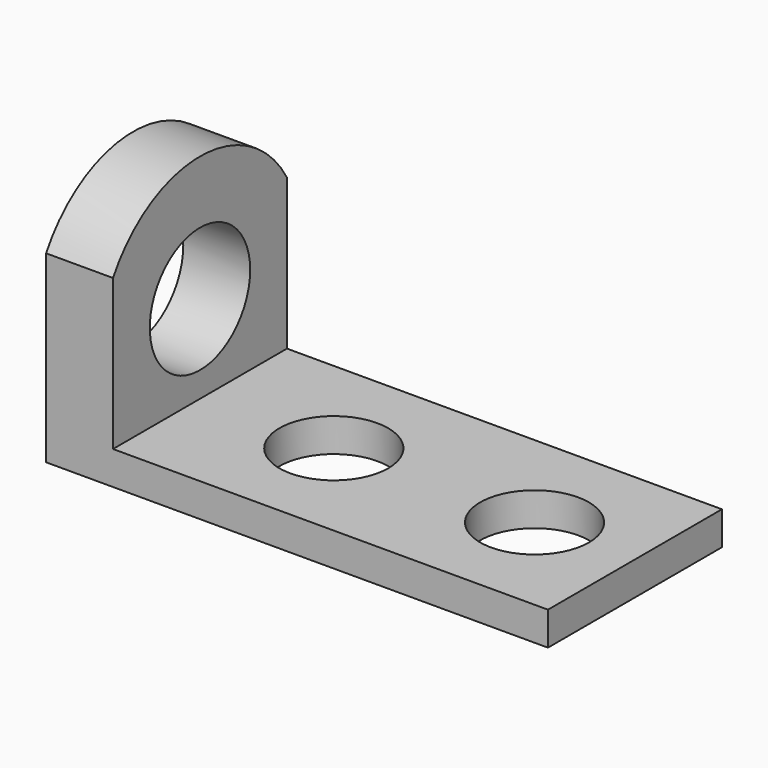
from build123d import *

# Parameters (mm, degrees)
F1_DEPTH = 82.55
F2_R     = 20.6375
F3_DEPTH = 12.701
F5_DEPTH = 25.401
F6_R     = 23.8125
F7_DEPTH = 25.401


with BuildPart() as f1:
    # F0 (on Front) → F1 (new body)
    with BuildSketch(Plane.XZ):
        Polygon((0, 101.6), (0, 0), (190.5, 0), (190.5, 12.7), (25.4, 12.7), (25.4, 101.6), align=None)
    extrude(amount=F1_DEPTH)

    # F2 (on face) → F3 (cut, through all)
    with BuildSketch(Plane.XY.offset(12.7)):
        with Locations((76.2, -41.275)):
            Circle(F2_R)
        with Locations((152.4, -41.275)):
            Circle(F2_R)
    extrude(amount=-F3_DEPTH, mode=Mode.SUBTRACT)

    # F4 (on face) → F5 (cut, through all)
    with BuildSketch(Plane.YZ.offset(25.4)):
        with BuildLine():
            Line((-82.55, 101.6), (-82.55, 69.85))
            ThreePointArc((-82.55, 69.85), (-41.275, 93.715476), (0, 69.85))
            Line((0, 69.85), (0, 101.6))
            Line((0, 101.6), (-82.55, 101.6))
        make_face()
    extrude(amount=-F5_DEPTH, mode=Mode.SUBTRACT)

    # F6 (on face) → F7 (cut, through all)
    with BuildSketch(Plane.YZ.offset(25.4)):
        with Locations((-41.275, 46.090476)):
            Circle(F6_R)
    extrude(amount=-F7_DEPTH, mode=Mode.SUBTRACT)


solid = f1.part
